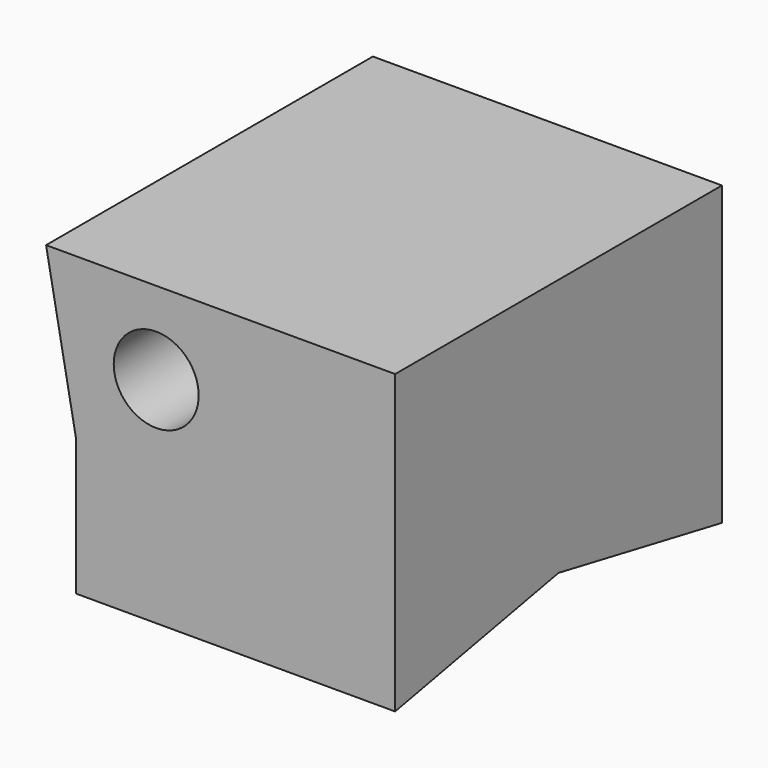
from build123d import *

# Parameters (mm, degrees)
F1_DEPTH  = 6
F2_W      = 104
F2_H      = 80
F2_W_2    = 6
F3_DEPTH  = 6
F5_DEPTH  = 104
F7_DEPTH  = 200
F8_R      = 11.4401294272
F10_DEPTH = 200
F11_W     = 86
F11_H     = 24.3039056659
F12_DEPTH = 1
F13_W     = 32.8389904462
F13_H     = 60.4005604982
F14_DEPTH = 1


with BuildPart() as f1:
    # F0 (on Front) → F1 (new body)
    with BuildSketch(Plane.XZ):
        Polygon((-88, 80), (-80, 37.097658962), (-80, 80), align=None)
        Polygon((-80, 0), (0, 0), (0, 80), (-80, 80), (-80, 37.097658962), align=None)
    extrude(amount=F1_DEPTH)

    # F2 (on face) → F3 (join)
    with BuildSketch(Plane.YZ):
        with Locations((52, 40)):
            Rectangle(F2_W, F2_H)
        with Locations((-3, 40)):
            Rectangle(F2_W_2, F2_H)
    extrude(amount=F3_DEPTH)

    # F5 (add, through all): a face of the model
    f5_faces = [f1.faces().sort_by_distance(p)[0] for p in [
        (-41.1141866674, 0, 40.6711029977),
    ]]
    extrude(f5_faces, amount=F5_DEPTH)

    # F6 (on face) → F7 (cut)
    with BuildSketch(Plane.YZ.offset(6)):
        Polygon((104, 0), (49, 10.5), (-6, 0), align=None)
    extrude(amount=-F7_DEPTH, mode=Mode.SUBTRACT)

    # F8 (on face) → F10 (cut)
    with BuildSketch(Plane(origin=(0, 104, 0), x_dir=(-1, 0, 0), z_dir=(0, 1, 0))):
        with Locations((58.3457089961, 57.7158816159)):
            Circle(F8_R)
    extrude(amount=-F10_DEPTH, mode=Mode.SUBTRACT)

    # F11 (on face) → F12 (join)
    with BuildSketch(Plane(origin=(-70.6266357892, 0, -13.1697495438), x_dir=(0, -1, 0), z_dir=(-0.983055103, 0, -0.1833102957))):
        with Locations((-49, 72.5469328463)):
            Rectangle(F11_W, F11_H)
    extrude(amount=F12_DEPTH)

    # F13 (on face) → F14 (join)
    with BuildSketch(Plane(origin=(0, 104, 0), x_dir=(-1, 0, 0), z_dir=(0, 1, 0))):
        with Locations((20.5245364923, 30.2002802491)):
            Rectangle(F13_W, F13_H)
    extrude(amount=F14_DEPTH)


solid = f1.part
